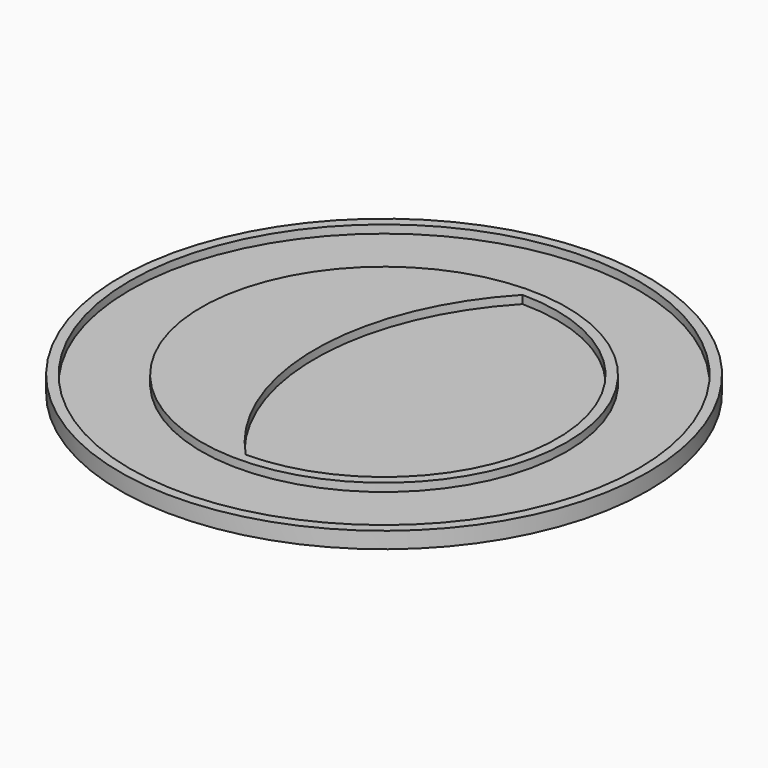
from build123d import *

# Parameters (mm, degrees)
F0_R     = 32.5
F1_DEPTH = 2
F2_R     = 31.3
F3_DEPTH = 1
F4_R     = 22.5
F5_DEPTH = 1


with BuildPart() as f1:
    # F0 (on Top) → F1 (new body)
    with BuildSketch(Plane.XY):
        Circle(F0_R)
    extrude(amount=F1_DEPTH)

    # F2 (on face) → F3 (cut)
    with BuildSketch(Plane.XY.offset(2)):
        Circle(F2_R)
    extrude(amount=-F3_DEPTH, mode=Mode.SUBTRACT)

    # F4 (on face) → F5 (join)
    with BuildSketch(Plane.XY.offset(1)):
        Circle(F4_R)
        with BuildLine():
            ThreePointArc((0, -21.3), (-8.482899, 0), (0, 21.3))
            ThreePointArc((0, 21.3), (21.3, 0), (0, -21.3))
        make_face(mode=Mode.SUBTRACT)
    extrude(amount=F5_DEPTH)


solid = f1.part
